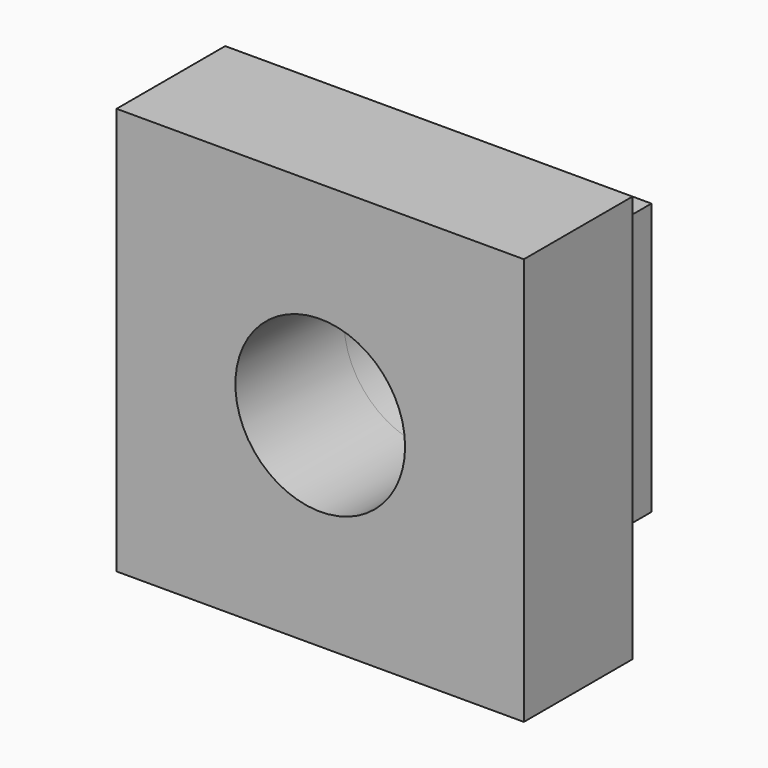
from build123d import *

# Parameters (mm, degrees)
F0_W     = 101.6
F0_H     = 101.6
F0_R     = 31.75
F1_DEPTH = 38.1
F0_W_2   = 152.4
F0_H_2   = 152.4
F2_DEPTH = 50.8


with BuildPart() as f1:
    # F0 (on Front) → F1 (new body)
    with BuildSketch(Plane.XZ):
        with Locations((1.999011, 0)):
            Rectangle(F0_W, F0_H)
        Circle(F0_R, mode=Mode.SUBTRACT)
    extrude(amount=-F1_DEPTH)


with BuildPart() as f2:
    # F0 (on Front) → F2 (new body)
    with BuildSketch(Plane.XZ):
        Rectangle(F0_W_2, F0_H_2)
        with Locations((1.999011, 0)):
            Rectangle(F0_W, F0_H, mode=Mode.SUBTRACT)
        with Locations((1.999011, 0)):
            Rectangle(F0_W, F0_H)
        Circle(F0_R, mode=Mode.SUBTRACT)
    extrude(amount=F2_DEPTH)


solid = Compound([f1.part, f2.part])
